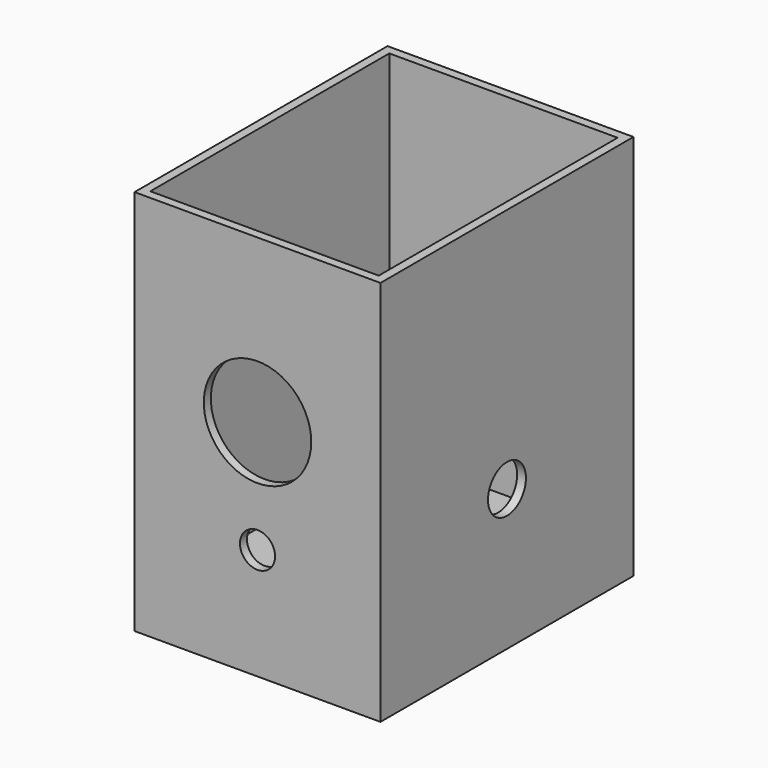
from build123d import *

# Parameters (mm, degrees)
F0_W     = 177.8
F0_H     = 228.6
F0_W_2   = 165.1
F0_H_2   = 215.9
F1_DEPTH = 279.4
F2_R     = 12.7
F2_R_2   = 38.829729
F3_DEPTH = 254
F4_R     = 17.145
F5_DEPTH = 254
F6_DEPTH = 25.4


with BuildPart() as f1:
    # F0 (on Top) → F1 (new body)
    with BuildSketch(Plane.XY):
        Rectangle(F0_W, F0_H)
        Rectangle(F0_W_2, F0_H_2, mode=Mode.SUBTRACT)
    extrude(amount=F1_DEPTH)

    # F2 (on Front) → F3 (cut)
    with BuildSketch(Plane.XZ):
        with Locations((0, 80.557629)):
            Circle(F2_R)
        with Locations((0, 161.839798)):
            Circle(F2_R_2)
    extrude(amount=F3_DEPTH, mode=Mode.SUBTRACT)

    # F4 (on Right) → F5 (cut)
    with BuildSketch(Plane.YZ):
        with Locations((0, 101.838969)):
            Circle(F4_R)
    extrude(amount=F5_DEPTH, mode=Mode.SUBTRACT)

    # F0 (on Top) → F6 (join)
    with BuildSketch(Plane.XY):
        Rectangle(F0_W_2, F0_H_2)
    extrude(amount=F6_DEPTH)


solid = f1.part
